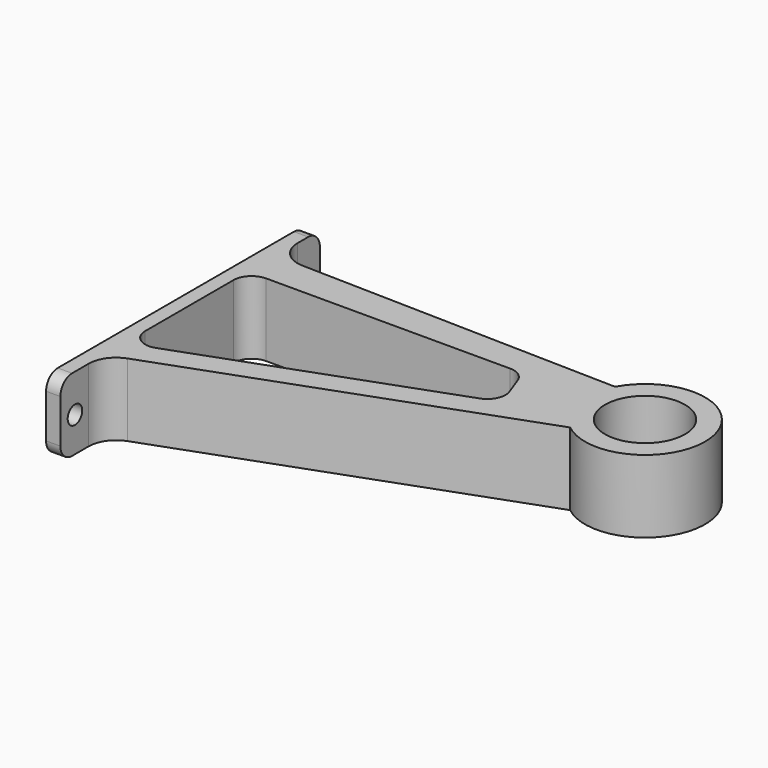
from build123d import *

# Parameters (mm, degrees)
F0_R     = 13.97
F1_DEPTH = 25.4
F2_R     = 5.08
F3_R     = 3.175
F4_DEPTH = 5.001
F5_R     = 9.573934


with BuildPart() as f1:
    # F0 (on Top) → F1 (new body)
    with BuildSketch(Plane.XY):
        with BuildLine():
            Line((-127, 52.264305), (-132, 52.264305))
            Line((-132, 52.264305), (-132, -60.940004))
            Line((-132, -60.940004), (-127, -60.940004))
            Line((-127, -60.940004), (-127, -41.890004))
            Line((-127, -41.890004), (-1.012586, 3.965665))
            ThreePointArc((-1.012586, 3.965665), (32.5077, 24.635271), (-6.449811, 30.393267))
            Line((-6.449811, 30.393267), (-127, 33.214305))
            Line((-127, 33.214305), (-127, 52.264305))
        make_face()
        with BuildLine():
            Line((-127, -23.931264), (-127, 14.562711))
            ThreePointArc((-127, 14.562711), (-125.140128, 19.052839), (-120.65, 20.912711))
            Line((-120.65, 20.912711), (-35.507844, 20.912711))
            ThreePointArc((-35.507844, 20.912711), (-31.865634, 19.764326), (-29.540796, 16.734538))
            Line((-29.540796, 16.734538), (-27.128811, 10.107665))
            ThreePointArc((-27.128811, 10.107665), (-27.340805, 5.252211), (-30.924032, 1.968789))
            Line((-30.924032, 1.968789), (-118.478172, -29.898312))
            ThreePointArc((-118.478172, -29.898312), (-124.29221, -29.132879), (-127, -23.931264))
        make_face(mode=Mode.SUBTRACT)
        with Locations((11.979175, 20.411724)):
            Circle(F0_R, mode=Mode.SUBTRACT)
    extrude(amount=F1_DEPTH)

    # F2
    f2_edges = [f1.edges().sort_by_distance(p)[0] for p in [
        (-129.5, 52.264305, 25.4),
        (-129.5, 52.264305, 0),
        (-129.5, -60.940004, 0),
        (-129.5, -60.940004, 25.4),
    ]]
    fillet(f2_edges, radius=F2_R)

    # F3 (on face) → F4 (cut, through all)
    with BuildSketch(Plane.YZ.offset(-127)):
        with Locations((45.914305, 12.7)):
            Circle(F3_R)
        with Locations((-54.590004, 12.163277)):
            Circle(F3_R)
    extrude(amount=-F4_DEPTH, mode=Mode.SUBTRACT)

    # F5
    f5_edges = [f1.edges().sort_by_distance(p)[0] for p in [
        (-127, -41.890004, 12.7),
        (-127, 33.214305, 12.7),
    ]]
    fillet(f5_edges, radius=F5_R)


solid = f1.part
